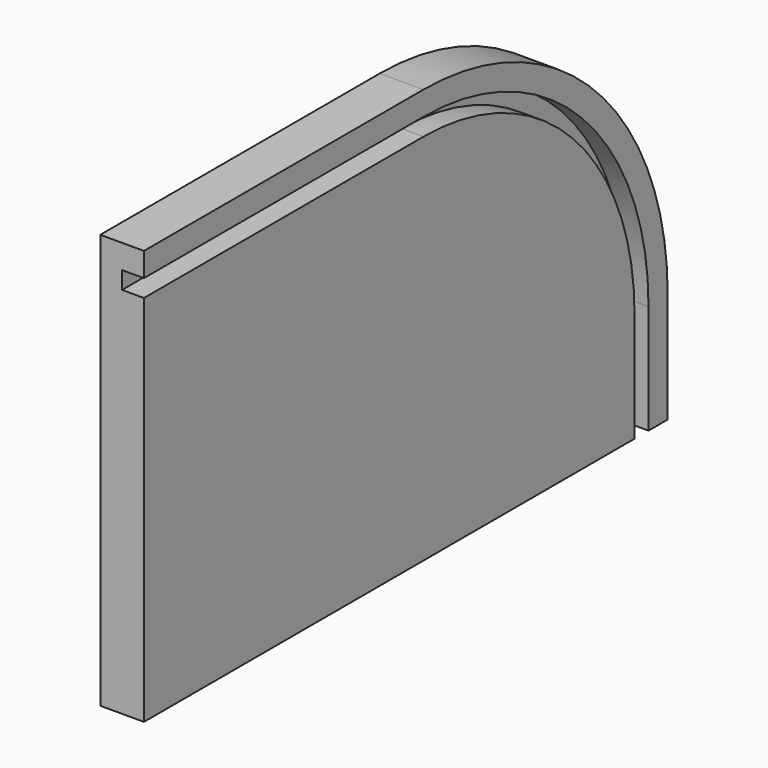
from build123d import *

# Parameters (mm, degrees)
F0_W     = 300
F0_H     = 190
F1_DEPTH = 20
F2_R     = 140
F4_DEPTH = 10


with BuildPart() as f1:
    # F0 (on Right) → F1 (new body)
    with BuildSketch(Plane.YZ):
        Rectangle(F0_W, F0_H)
    extrude(amount=F1_DEPTH)

    # F2
    f2_edges = [f1.edges().sort_by_distance(p)[0] for p in [
        (10, 150, 95),
    ]]
    fillet(f2_edges, radius=F2_R)

    # F3 (on face) → F4 (cut)
    with BuildSketch(Plane.YZ.offset(20)):
        with BuildLine():
            Line((131, -95), (139, -95))
            Line((139, -95), (139, -45))
            ThreePointArc((139, -45), (101.216775, 46.216775), (10, 84))
            Line((10, 84), (-150, 84))
            Line((-150, 84), (-150, 76))
            Line((-150, 76), (10, 76))
            ThreePointArc((10, 76), (95.559921, 40.559921), (131, -45))
            Line((131, -45), (131, -95))
        make_face()
    extrude(amount=-F4_DEPTH, mode=Mode.SUBTRACT)


solid = f1.part
